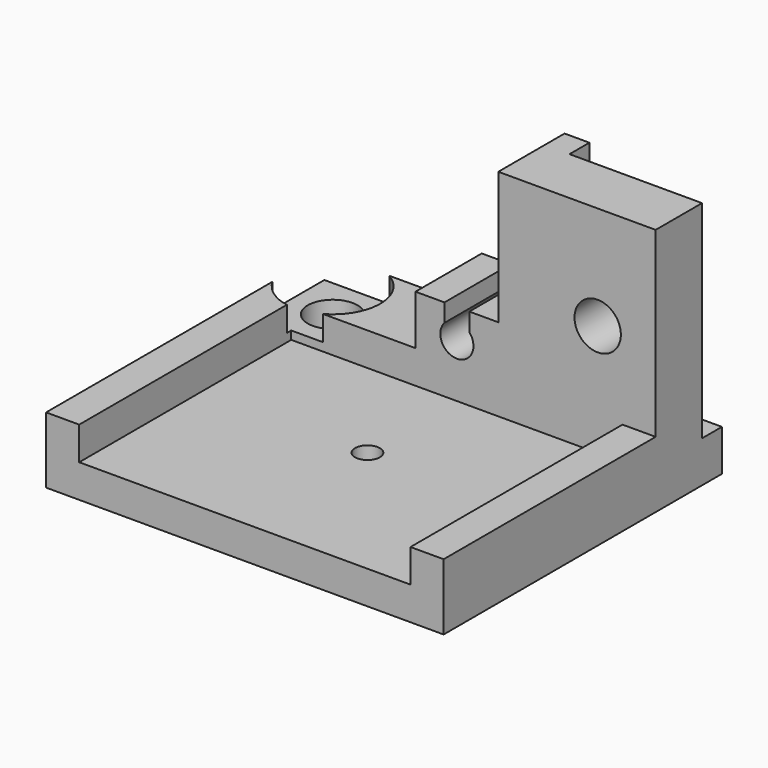
from build123d import *

# Parameters (mm, degrees)
CYLINDER015_W               = 7.75
CYLINDER015_H               = 10
CYLINDER015_ANGLE           = 90
CYLINDER014_R               = 5.75
CYLINDER014_DEPTH           = 10
CYLINDER014_PLACEMENT_ANGLE = 285
CYLINDER013_R               = 3
CYLINDER013_DEPTH           = 10
CYLINDER_R                  = 2.8
CYLINDER_DEPTH              = 19
BOX_W                       = 25
BOX_H                       = 10
BOX_DEPTH                   = 16
CYLINDER011_R               = 2
CYLINDER011_DEPTH           = 20
CYLINDER012_R               = 1.5
CYLINDER012_DEPTH           = 42
BOX020_W                    = 18
BOX020_H                    = 50
BOX020_DEPTH                = 40
BOX021_W                    = 9
BOX021_H                    = 32
BOX021_DEPTH                = 3
BOX018_W                    = 8
BOX018_H                    = 42
BOX018_DEPTH                = 48
BOX019_W                    = 10
BOX019_H                    = 10
BOX019_DEPTH                = 10
CUT_PLACEMENT_ANGLE         = 180
BOX022_W                    = 30
BOX022_H                    = 10
BOX022_DEPTH                = 19


with BuildPart() as cylinder015:
    # Cylinder015 → Cylinder015 (revolve)
    with BuildSketch(Plane(origin=(-32.5, -92, 58), x_dir=(0, 1, 0), z_dir=(1, 0, 0))):
        with Locations((3.875, 5)):
            Rectangle(CYLINDER015_W, CYLINDER015_H)
    revolve(axis=Axis((-32.5, -92, 58), (0, 0, 1)), revolution_arc=CYLINDER015_ANGLE)


with BuildPart() as cylinder014:
    # Cylinder014 → Cylinder014 (new body)
    with BuildSketch(Plane.XY):
        Circle(CYLINDER014_R)
    extrude(amount=CYLINDER014_DEPTH)


with BuildPart() as cylinder014_1:
    # Cylinder014 placement: moved
    add(cylinder014.part.moved(Location((-32.5, -92, 58))).rotate(Axis((-32.5, -92, 58), (0, 0, 1)), CYLINDER014_PLACEMENT_ANGLE))


with BuildPart() as cylinder013:
    # Cylinder013 → Cylinder013 (new body)
    with BuildSketch(Plane(origin=(-32.5, -92, 53), x_dir=(1, 0, 0), z_dir=(0, 0, 1))):
        Circle(CYLINDER013_R)
    extrude(amount=CYLINDER013_DEPTH)


with BuildPart() as cylinder:
    # Cylinder → Cylinder (new body)
    with BuildSketch(Plane(origin=(3.5, -80, 70.5), x_dir=(1, 0, 0), z_dir=(0, -1, 0))):
        Circle(CYLINDER_R)
    extrude(amount=CYLINDER_DEPTH)


with BuildPart() as fusion002:
    # Box → Box (new body)
    with BuildSketch(Plane(origin=(10.5, -90, 58), x_dir=(0, 0, 1), z_dir=(-1, 0, 0))):
        with Locations((12.5, 5)):
            Rectangle(BOX_W, BOX_H)
    extrude(amount=BOX_DEPTH)

    # Fusion002: union Cylinder
    add(cylinder.part)


with BuildPart() as cylinder001:
    # Cylinder011 → Cylinder011 (new body)
    with BuildSketch(Plane(origin=(13.5, 87, 63.5), x_dir=(-1, 0, 0), z_dir=(0, 1, 0))):
        Circle(CYLINDER011_R)
    extrude(amount=CYLINDER011_DEPTH)


with BuildPart() as cut001:
    # Cylinder012 → Cylinder012 (new body)
    with BuildSketch(Plane(origin=(13.5, 110.5, 42.5), x_dir=(-1, 0, 0), z_dir=(0, 0, 1))):
        Circle(CYLINDER012_R)
    extrude(amount=CYLINDER012_DEPTH)


with BuildPart() as gpscut:
    # Box020 → Box020 (new body)
    with BuildSketch(Plane(origin=(33.5, 97, 57), x_dir=(0, 0, 1), z_dir=(-1, 0, 0))):
        with Locations((9, 25)):
            Rectangle(BOX020_W, BOX020_H)
    extrude(amount=BOX020_DEPTH)


with BuildPart() as fusion001:
    # Box021 → Box021 (new body)
    with BuildSketch(Plane(origin=(15, 87, 63), x_dir=(0, 0, 1), z_dir=(-1, 0, 0))):
        with Locations((4.5, 16)):
            Rectangle(BOX021_W, BOX021_H)
    extrude(amount=BOX021_DEPTH)

    # Fusion001: union Cylinder001, cut001, gpsCut
    add(cylinder001.part)
    add(cut001.part)
    add(gpscut.part)


with BuildPart() as shell:
    # Box018 → Box018 (new body)
    with BuildSketch(Plane(origin=(37.5, 87, 53), x_dir=(0, 0, 1), z_dir=(-1, 0, 0))):
        with Locations((4, 21)):
            Rectangle(BOX018_W, BOX018_H)
    extrude(amount=BOX018_DEPTH)


with BuildPart() as obj1:
    # Box019 → Box019 (new body)
    with BuildSketch(Plane(origin=(18.5, 87, 57), x_dir=(0, 0, 1), z_dir=(-1, 0, 0))):
        with Locations((5, 5)):
            Rectangle(BOX019_W, BOX019_H)
    extrude(amount=BOX019_DEPTH)

    # Fusion: union shell
    add(shell.part)

    # Cut: cut Fusion001
    add(fusion001.part, mode=Mode.SUBTRACT)


with BuildPart() as obj1_1:
    # Cut placement: moved
    add(obj1.part.rotate(Axis((0, 0, 0), (0, 0, 1)), CUT_PLACEMENT_ANGLE))


with BuildPart() as gpsholder002:
    # Box022 → Box022 (new body)
    with BuildSketch(Plane(origin=(10.5, -97, 53), x_dir=(0, 0, 1), z_dir=(-1, 0, 0))):
        with Locations((15, 5)):
            Rectangle(BOX022_W, BOX022_H)
    extrude(amount=BOX022_DEPTH)

    # Fusion003: union obj1
    add(obj1_1.part)

    # Cut001: cut Fusion002
    add(fusion002.part, mode=Mode.SUBTRACT)

    # Cut002: cut Cylinder013
    add(cylinder013.part, mode=Mode.SUBTRACT)

    # Cut003: cut Cylinder014
    add(cylinder014_1.part, mode=Mode.SUBTRACT)

    # Cut004: cut Cylinder015
    add(cylinder015.part, mode=Mode.SUBTRACT)


solid = gpsholder002.part
